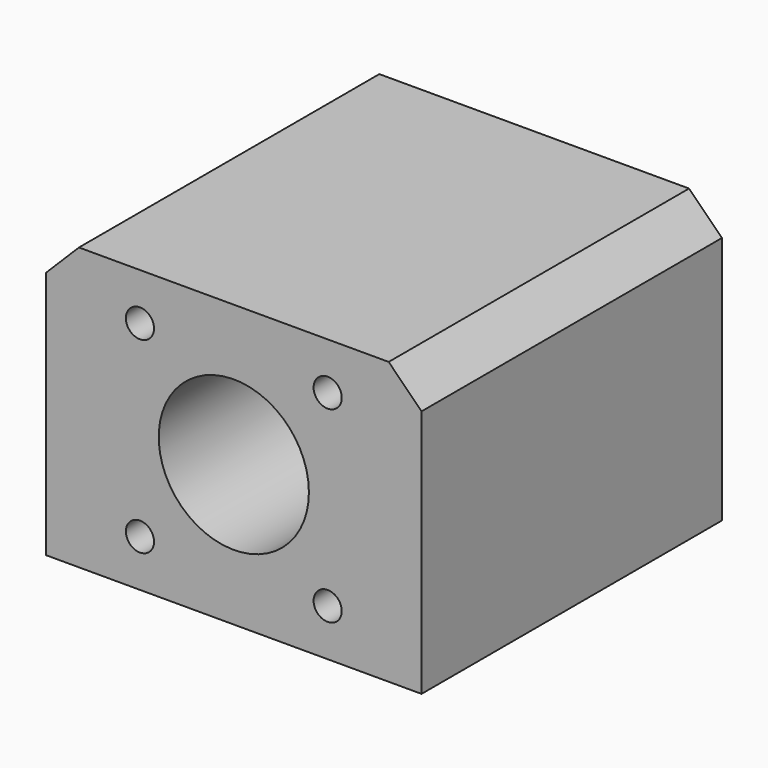
from build123d import *

# Parameters (mm, degrees)
F0_W     = 80
F0_H     = 60
F0_R     = 16
F1_DEPTH = 80
F2_SIZE  = 7
F4_D     = 6
F4_DEPTH = 20
F4_TIP   = 1.8025818571
F6_D     = 8
F6_DEPTH = 20
F6_TIP   = 2.4034424761


with BuildPart() as f1:
    # F0 (on Front) → F1 (new body)
    with BuildSketch(Plane.XZ):
        with Locations((40, 30)):
            Rectangle(F0_W, F0_H)
        with Locations((40, 30)):
            Circle(F0_R, mode=Mode.SUBTRACT)
    extrude(amount=F1_DEPTH)

    # F2
    f2_edges = [f1.edges().sort_by_distance(p)[0] for p in [
        (0, -40, 60),
        (80, -40, 60),
    ]]
    chamfer(f2_edges, length=F2_SIZE)

    # F4
    with Locations(Plane.XZ.offset(80)):
        with Locations((20, 50), (60, 50), (60, 10), (20, 10)):
            Hole(F4_D / 2, depth=F4_DEPTH)
            with Locations((0, 0, -(F4_DEPTH + F4_TIP / 2))):  # 118° drill point
                Cone(0, F4_D / 2, F4_TIP, mode=Mode.SUBTRACT)

    # F6
    with Locations(Plane(origin=(0, 0, 0), x_dir=(1, 0, 0), z_dir=(0, 0, -1))):
        with Locations((10, 70), (70, 70), (70, 10), (10, 10)):
            Hole(F6_D / 2, depth=F6_DEPTH)
            with Locations((0, 0, -(F6_DEPTH + F6_TIP / 2))):  # 118° drill point
                Cone(0, F6_D / 2, F6_TIP, mode=Mode.SUBTRACT)


solid = f1.part
